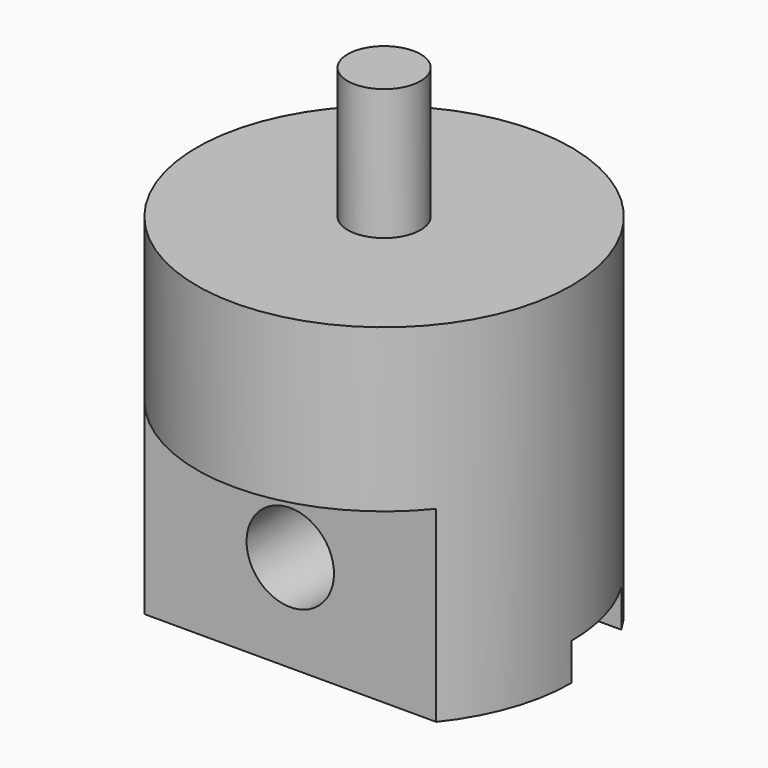
from build123d import *

# Parameters (mm, degrees)
F0_R     = 6.425
F1_DEPTH = 12
F2_R     = 1.5
F3_DEPTH = 12.5
F5_DEPTH = 3.25
F6_W     = 3.25
F6_H     = 1.2716361485
F6_W_2   = 2.4
F6_H_2   = 1.6
F6_H_3   = 3
F6_H_4   = 1.8378814235
F7_DEPTH = 12.5
F8_R     = 1.25
F9_DEPTH = 4.5


with BuildPart() as f1:
    # F0 (on Top) → F1 (new body)
    with BuildSketch(Plane.XY):
        Circle(F0_R)
    extrude(amount=-F1_DEPTH)

    # F2 (on Front) → F3 (cut, symmetric)
    with BuildSketch(Plane.XZ):
        with Locations((0, -8.6621185765)):
            Circle(F2_R)
    extrude(amount=F3_DEPTH, both=True, mode=Mode.SUBTRACT)

    # F4 (on Front) → F5 (cut)
    with BuildSketch(Plane.XZ):
        with BuildLine():
            Line((6.425, -12), (2.7726078369, -6.7377301586))
            ThreePointArc((2.7726078369, -6.7377301586), (0, -5.2871185765), (-2.7726078369, -6.7377301586))
            Line((-2.7726078369, -6.7377301586), (-6.425, -12))
            Line((-6.425, -12), (6.425, -12))
        make_face()
    extrude(amount=-F5_DEPTH, mode=Mode.SUBTRACT)

    # F6 (on Right) → F7 (cut, symmetric)
    with BuildSketch(Plane.YZ):
        with Locations((1.625, -11.3641819257)):
            Rectangle(F6_W, F6_H)
        with Locations((-5.225, -6.3621185765)):
            Rectangle(F6_W_2, F6_H_2)
        with Locations((-5.225, -8.6621185765)):
            Rectangle(F6_W_2, F6_H_3)
        with Locations((-5.225, -11.0810592882)):
            Rectangle(F6_W_2, F6_H_4)
    extrude(amount=F7_DEPTH, both=True, mode=Mode.SUBTRACT)

    # F8 (on face) → F9 (join)
    with BuildSketch(Plane.XY):
        Circle(F8_R)
    extrude(amount=F9_DEPTH)


solid = f1.part
